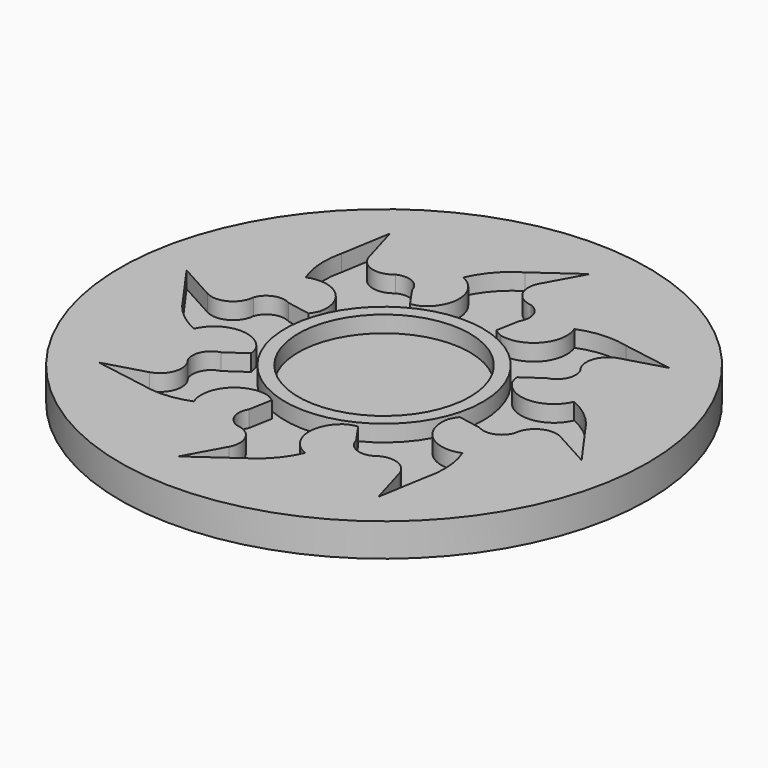
from build123d import *

# Parameters (mm, degrees)
F0_R     = 50.8
F1_DEPTH = 6.35
F2_R     = 19.05
F2_R_2   = 16.51
F3_DEPTH = 3.175


with BuildPart() as f1:
    # F0 (on Top) → F1 (new body)
    with BuildSketch(Plane.XY):
        Circle(F0_R)
    extrude(amount=F1_DEPTH)

    # F2 (on face) → F3 (cut)
    with BuildSketch(Plane.XY.offset(6.35)):
        with BuildLine():
            ThreePointArc((-27.064107, 14.965056), (-20.566075, 13.915697), (-18.50429, 7.664728))
            ThreePointArc((-18.50429, 7.664728), (-18.911897, 6.842578), (-19.419766, 6.078285))
            Line((-19.419766, 6.078285), (-23.875048, 6.888337))
            ThreePointArc((-23.875048, 6.888337), (-26.958737, 7.175685), (-29.128942, 4.96618))
            ThreePointArc((-29.128942, 4.96618), (-31.301297, 1.633058), (-35.279843, 1.634443))
            Line((-35.279843, 1.634443), (-42.498607, 5.606899))
            Line((-42.498607, 5.606899), (-36.826611, -2.354635))
            ThreePointArc((-36.826611, -2.354635), (-33.757711, -6.010738), (-29.719107, -8.555321))
            ThreePointArc((-29.719107, -8.555321), (-24.382295, -4.702528), (-18.50429, -7.664728))
            ThreePointArc((-18.50429, -7.664728), (-18.211164, -8.534298), (-18.029845, -9.433852))
            Line((-18.029845, -9.433852), (-21.752998, -12.011419))
            ThreePointArc((-21.752998, -12.011419), (-24.136681, -13.98873), (-24.108892, -17.085653))
            ThreePointArc((-24.108892, -17.085653), (-23.288106, -20.978613), (-26.102342, -23.79089))
            Line((-26.102342, -23.79089), (-34.01573, -26.086377))
            Line((-34.01573, -26.086377), (-24.375368, -27.705325))
            ThreePointArc((-24.375368, -27.705325), (-19.620073, -28.12054), (-14.965056, -27.064107))
            ThreePointArc((-14.965056, -27.064107), (-13.915697, -20.566075), (-7.664728, -18.50429))
            ThreePointArc((-7.664728, -18.50429), (-6.842578, -18.911897), (-6.078285, -19.419766))
            Line((-6.078285, -19.419766), (-6.888337, -23.875048))
            ThreePointArc((-6.888337, -23.875048), (-7.175685, -26.958737), (-4.96618, -29.128942))
            ThreePointArc((-4.96618, -29.128942), (-1.633058, -31.301297), (-1.634443, -35.279843))
            Line((-1.634443, -35.279843), (-5.606899, -42.498607))
            Line((-5.606899, -42.498607), (2.354635, -36.826611))
            ThreePointArc((2.354635, -36.826611), (6.010738, -33.757711), (8.555321, -29.719107))
            ThreePointArc((8.555321, -29.719107), (4.702528, -24.382295), (7.664728, -18.50429))
            ThreePointArc((7.664728, -18.50429), (8.534298, -18.211164), (9.433852, -18.029845))
            Line((9.433852, -18.029845), (12.011419, -21.752998))
            ThreePointArc((12.011419, -21.752998), (13.98873, -24.136681), (17.085653, -24.108892))
            ThreePointArc((17.085653, -24.108892), (20.978613, -23.288106), (23.79089, -26.102342))
            Line((23.79089, -26.102342), (26.086377, -34.01573))
            Line((26.086377, -34.01573), (27.705325, -24.375368))
            ThreePointArc((27.705325, -24.375368), (28.12054, -19.620073), (27.064107, -14.965056))
            ThreePointArc((27.064107, -14.965056), (20.566075, -13.915697), (18.50429, -7.664728))
            ThreePointArc((18.50429, -7.664728), (18.911897, -6.842578), (19.419766, -6.078285))
            Line((19.419766, -6.078285), (23.875048, -6.888337))
            ThreePointArc((23.875048, -6.888337), (26.958737, -7.175685), (29.128942, -4.96618))
            ThreePointArc((29.128942, -4.96618), (31.301297, -1.633058), (35.279843, -1.634443))
            Line((35.279843, -1.634443), (42.498607, -5.606899))
            Line((42.498607, -5.606899), (36.826611, 2.354635))
            ThreePointArc((36.826611, 2.354635), (33.757711, 6.010738), (29.719107, 8.555321))
            ThreePointArc((29.719107, 8.555321), (24.382295, 4.702528), (18.50429, 7.664728))
            ThreePointArc((18.50429, 7.664728), (18.211164, 8.534298), (18.029845, 9.433852))
            Line((18.029845, 9.433852), (21.752998, 12.011419))
            ThreePointArc((21.752998, 12.011419), (24.136681, 13.98873), (24.108892, 17.085653))
            ThreePointArc((24.108892, 17.085653), (23.288106, 20.978613), (26.102342, 23.79089))
            Line((26.102342, 23.79089), (34.01573, 26.086377))
            Line((34.01573, 26.086377), (24.375368, 27.705325))
            ThreePointArc((24.375368, 27.705325), (19.620073, 28.12054), (14.965056, 27.064107))
            ThreePointArc((14.965056, 27.064107), (13.915697, 20.566075), (7.664728, 18.50429))
            ThreePointArc((7.664728, 18.50429), (6.842578, 18.911897), (6.078285, 19.419766))
            Line((6.078285, 19.419766), (6.888337, 23.875048))
            ThreePointArc((6.888337, 23.875048), (7.175685, 26.958737), (4.96618, 29.128942))
            ThreePointArc((4.96618, 29.128942), (1.633058, 31.301297), (1.634443, 35.279843))
            Line((1.634443, 35.279843), (5.606899, 42.498607))
            Line((5.606899, 42.498607), (-2.354635, 36.826611))
            ThreePointArc((-2.354635, 36.826611), (-6.010738, 33.757711), (-8.555321, 29.719107))
            ThreePointArc((-8.555321, 29.719107), (-4.702528, 24.382295), (-7.664728, 18.50429))
            ThreePointArc((-7.664728, 18.50429), (-8.534298, 18.211164), (-9.433852, 18.029845))
            Line((-9.433852, 18.029845), (-12.011419, 21.752998))
            ThreePointArc((-12.011419, 21.752998), (-13.98873, 24.136681), (-17.085653, 24.108892))
            ThreePointArc((-17.085653, 24.108892), (-20.978613, 23.288106), (-23.79089, 26.102342))
            Line((-23.79089, 26.102342), (-26.086377, 34.01573))
            Line((-26.086377, 34.01573), (-27.705325, 24.375368))
            ThreePointArc((-27.705325, 24.375368), (-28.12054, 19.620073), (-27.064107, 14.965056))
        make_face()
        Circle(F2_R, mode=Mode.SUBTRACT)
        Circle(F2_R_2)
    extrude(amount=-F3_DEPTH, mode=Mode.SUBTRACT)


solid = f1.part
